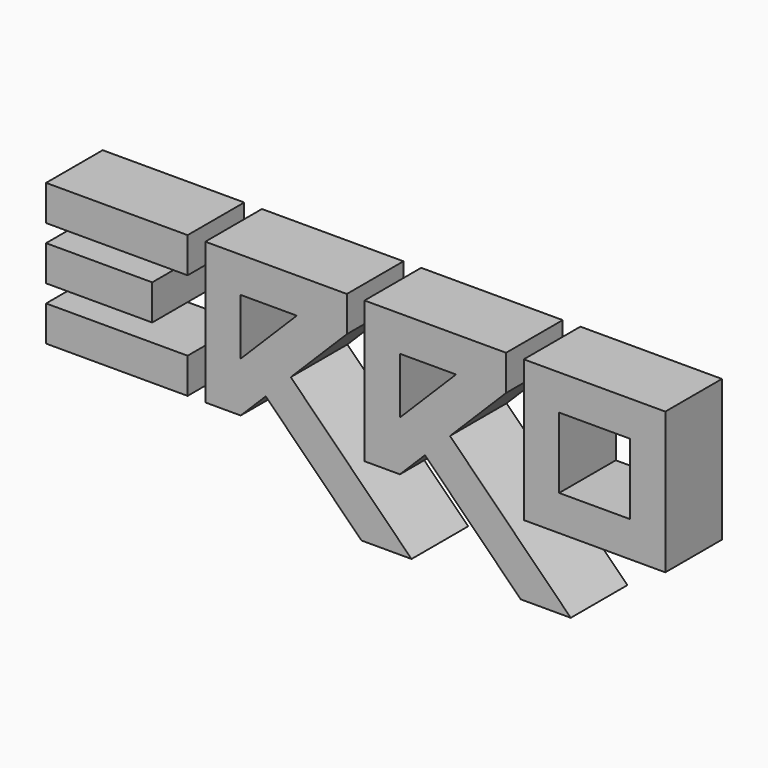
from build123d import *

# Parameters (mm, degrees)
F0_W     = 40
F0_H     = 10
F0_W_2   = 30
F0_H_2   = 40
F0_W_3   = 20
F0_H_3   = 20
F1_DEPTH = 20


with BuildPart() as f1:
    # F0 (on Front) → F1 (new body)
    with BuildSketch(Plane.XZ):
        with Locations((-20, 35)):
            Rectangle(F0_W, F0_H)
        with Locations((-25, 20)):
            Rectangle(F0_W_2, F0_H)
        with Locations((-20, 5)):
            Rectangle(F0_W, F0_H)
        Polygon((5, 40), (5, 0), (15, 0), (22.071068, 7.071068), (49.142136, -20), (63.284271, -20), (29.142136, 14.142136), (45, 30), (45, 40), align=None)
        Polygon((15, 14.142136), (15, 30), (30.857864, 30), align=None, mode=Mode.SUBTRACT)
        Polygon((50, 40), (50, 0), (60, 0), (67.071068, 7.071068), (94.142136, -20), (108.284271, -20), (74.142136, 14.142136), (90, 30), (90, 40), align=None)
        Polygon((60, 14.142136), (60, 30), (75.857864, 30), align=None, mode=Mode.SUBTRACT)
        with Locations((115, 20)):
            Rectangle(F0_W, F0_H_2)
        with Locations((115, 20)):
            Rectangle(F0_W_3, F0_H_3, mode=Mode.SUBTRACT)
    extrude(amount=F1_DEPTH)


solid = f1.part
